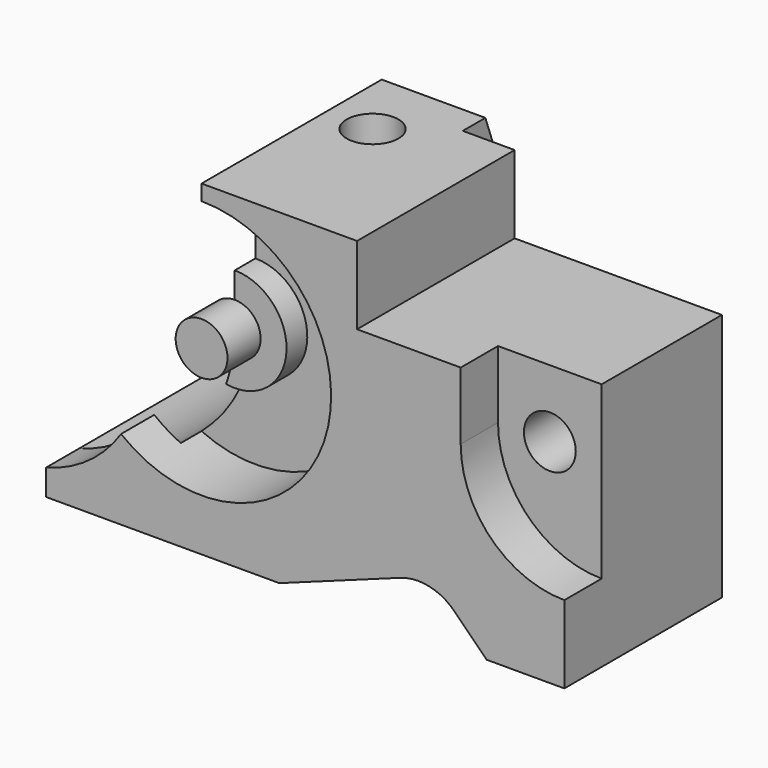
from build123d import *

# Parameters (mm, degrees)
F0_W      = 100
F0_H      = 63
F1_DEPTH  = 50
F3_DEPTH  = 50
F4_DEPTH  = 9
F5_R      = 5
F6_DEPTH  = 50
F8_DEPTH  = 50
F9_R      = 25
F10_DEPTH = 13
F11_R     = 10
F12_DEPTH = 5
F14_DEPTH = 42
F16_DEPTH = 8
F17_R     = 5
F18_DEPTH = 8
F19_R     = 5
F20_DEPTH = 63
F22_DEPTH = 40
F23_W     = 50
F23_H     = 12
F24_DEPTH = 63


with BuildPart() as f1:
    # F0 (on Front) → F1 (new body)
    with BuildSketch(Plane.XZ):
        with Locations((50, 31.5)):
            Rectangle(F0_W, F0_H)
    extrude(amount=-F1_DEPTH)

    # F2 (on face) → F3 (cut)
    with BuildSketch(Plane.XZ):
        Polygon((100, 63), (60, 63), (60, 48), (80, 48), (100, 48), align=None)
    extrude(amount=-F3_DEPTH, mode=Mode.SUBTRACT)

    # F2 (on face) → F4 (cut)
    with BuildSketch(Plane.XZ):
        with BuildLine():
            Line((100, 48), (80, 48))
            Line((80, 48), (80, 35))
            ThreePointArc((80, 35), (85.857864, 20.857864), (100, 15))
            Line((100, 15), (100, 48))
        make_face()
    extrude(amount=-F4_DEPTH, mode=Mode.SUBTRACT)

    # F5 (on face) → F6 (cut)
    with BuildSketch(Plane.XZ.offset(-9)):
        with Locations((90, 35)):
            Circle(F5_R)
    extrude(amount=-F6_DEPTH, mode=Mode.SUBTRACT)

    # F7 (on face) → F8 (cut)
    with BuildSketch(Plane.XZ):
        with BuildLine():
            Line((68.339651, 8.494938), (45, 0))
            Line((45, 0), (85, 0))
            Line((85, 0), (78.83092, 6.16908))
            ThreePointArc((78.83092, 6.16908), (73.924249, 8.860972), (68.339651, 8.494938))
        make_face()
    extrude(amount=-F8_DEPTH, mode=Mode.SUBTRACT)

    # F9 (on face) → F10 (cut)
    with BuildSketch(Plane.XZ):
        with Locations((30, 35)):
            Circle(F9_R)
    extrude(amount=-F10_DEPTH, mode=Mode.SUBTRACT)

    # F11 (on face) → F12 (join)
    with BuildSketch(Plane.XZ.offset(-13)):
        with Locations((30, 35)):
            Circle(F11_R)
    extrude(amount=F12_DEPTH)

    # F13 (on face) → F14 (cut)
    with BuildSketch(Plane(origin=(0, 50, 0), x_dir=(-1, 0, 0), z_dir=(0, 1, 0))):
        with BuildLine():
            Line((0, 63), (-30, 63))
            Line((-30, 63), (-30, 35))
            ThreePointArc((-30, 35), (-21.213203, 13.786797), (0, 5))
            Line((0, 5), (0, 63))
        make_face()
    extrude(amount=-F14_DEPTH, mode=Mode.SUBTRACT)

    # F15 (on face) → F16 (cut)
    with BuildSketch(Plane(origin=(0, 8, 0), x_dir=(-1, 0, 0), z_dir=(0, 1, 0))):
        with BuildLine():
            Line((-30, 63), (-30, 60))
            ThreePointArc((-30, 60), (-6.39103, 43.222927), (-14.469213, 15.409323))
            ThreePointArc((-14.469213, 15.409323), (-8.193821, 8.87133), (0, 5))
            Line((0, 5), (0, 63))
            Line((0, 63), (-30, 63))
        make_face()
    extrude(amount=-F16_DEPTH, mode=Mode.SUBTRACT)

    # F17 (on face) → F18 (join)
    with BuildSketch(Plane.XZ.offset(-8)):
        with Locations((30, 35)):
            Circle(F17_R)
    extrude(amount=F18_DEPTH)

    # F19 (on face) → F20 (cut)
    with BuildSketch(Plane.XY.offset(63)):
        with Locations((39, 30)):
            Circle(F19_R)
    extrude(amount=-F20_DEPTH, mode=Mode.SUBTRACT)

    # F21 (on face) → F22 (cut)
    with BuildSketch(Plane.YZ.offset(60)):
        Polygon((50, 45), (50, 63), (43.448536, 63), align=None)
    extrude(amount=-F22_DEPTH, mode=Mode.SUBTRACT)

    # F23 (on face) → F24 (cut)
    with BuildSketch(Plane.XY.offset(63)):
        with Locations((75, 44)):
            Rectangle(F23_W, F23_H)
    extrude(amount=-F24_DEPTH, mode=Mode.SUBTRACT)


solid = f1.part
